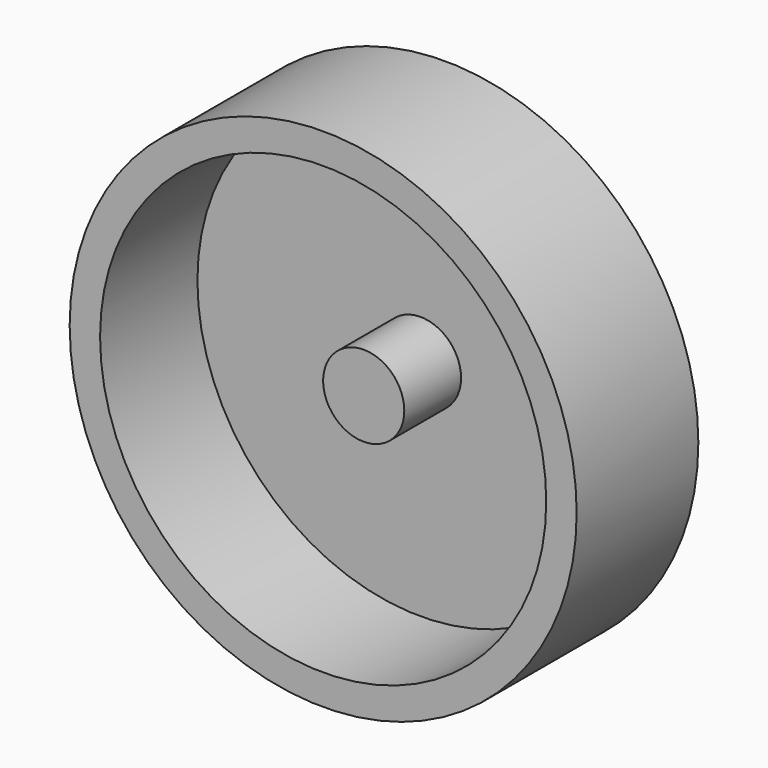
from build123d import *

# Parameters (mm, degrees)
CYLINDER_R             = 1.2
CYLINDER_DEPTH         = 7.7
CYLINDER_ROLL_ANGLE    = 90
CYLINDER002_R          = 4
CYLINDER002_DEPTH      = 10
CYLINDER002_ROLL_ANGLE = 90
CYLINDER001_R          = 25
CYLINDER001_DEPTH      = 15
CYLINDER001_ROLL_ANGLE = 90
THICKNESS_T            = -3


with BuildPart() as motorshaft:
    # Cylinder → Cylinder (new body)
    with BuildSketch(Plane.XY):
        Circle(CYLINDER_R)
    extrude(amount=CYLINDER_DEPTH)


with BuildPart() as motorshaft_1:
    # Cylinder roll: moved
    add(motorshaft.part.rotate(Axis((0, 0, 0), (1, 0, 0)), CYLINDER_ROLL_ANGLE))


with BuildPart() as motorshaft_2:
    # Cylinder placement: moved
    add(motorshaft_1.part.moved(Location((0, -26.7, 0))))


with BuildPart() as shaft_holder_f:
    # Cylinder002 → Cylinder002 (new body)
    with BuildSketch(Plane.XY):
        Circle(CYLINDER002_R)
    extrude(amount=CYLINDER002_DEPTH)


with BuildPart() as shaft_holder_f_1:
    # Cylinder002 roll: moved
    add(shaft_holder_f.part.rotate(Axis((0, 0, 0), (1, 0, 0)), CYLINDER002_ROLL_ANGLE))


with BuildPart() as shaft_holder_f_2:
    # Cylinder002 placement: moved
    add(shaft_holder_f_1.part.moved(Location((0, -28, 0))))


with BuildPart() as wheel_shaft_hollow_f:
    # Cylinder001 → Cylinder001 (new body)
    with BuildSketch(Plane.XY):
        Circle(CYLINDER001_R)
    extrude(amount=CYLINDER001_DEPTH)


with BuildPart() as wheel_shaft_hollow_f_1:
    # Cylinder001 roll: moved
    add(wheel_shaft_hollow_f.part.rotate(Axis((0, 0, 0), (1, 0, 0)), CYLINDER001_ROLL_ANGLE))


with BuildPart() as wheel_shaft_hollow_f_2:
    # Cylinder001 placement: moved
    add(wheel_shaft_hollow_f_1.part.moved(Location((0, -28, 0))))

    # Thickness
    thickness_openings = [wheel_shaft_hollow_f_2.faces().sort_by_distance(p)[0] for p in [
        (0, -43, 0),
    ]]
    offset(amount=THICKNESS_T, openings=thickness_openings)

    # Fusion: union shaft_holder_f
    add(shaft_holder_f_2.part)

    # Cut: cut motorshaft
    add(motorshaft_2.part, mode=Mode.SUBTRACT)


solid = wheel_shaft_hollow_f_2.part
